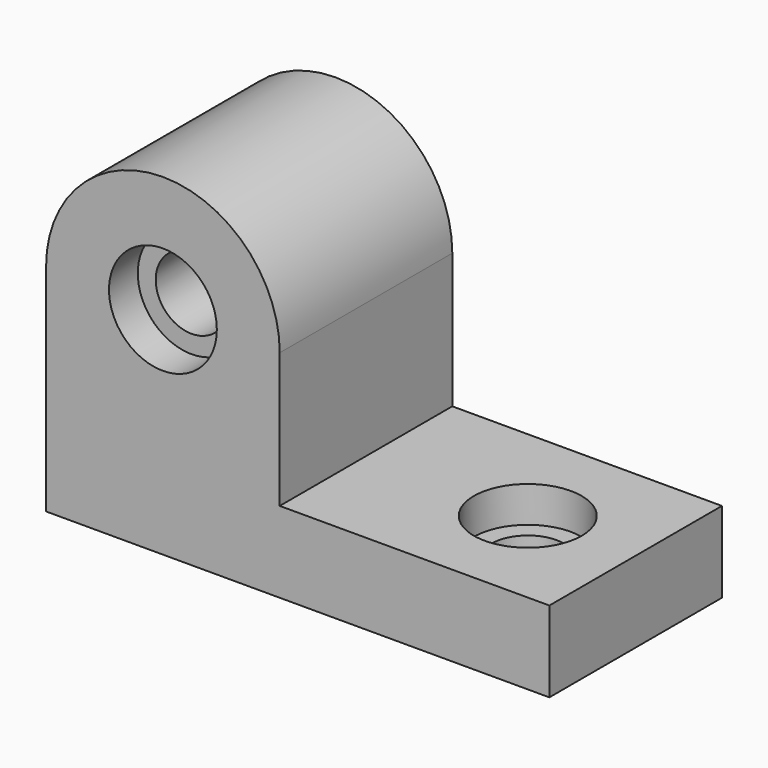
from build123d import *

# Parameters (mm, degrees)
F1_DEPTH  = 76.2
F3_DEPTH  = 76.201
F4_R      = 19.05
F5_DEPTH  = 12.7
F6_R      = 12.7
F7_DEPTH  = 63.501
F8_R      = 19.05
F9_DEPTH  = 12.7
F10_R     = 12.7
F11_DEPTH = 15.876


with BuildPart() as f1:
    # F0 (on Front) → F1 (new body)
    with BuildSketch(Plane.XZ):
        Polygon((0, 127), (0, 0), (177.8, 0), (177.8, 28.575), (82.55, 28.575), (82.55, 127), align=None)
    extrude(amount=F1_DEPTH)

    # F2 (on face) → F3 (cut, through all)
    with BuildSketch(Plane.XZ.offset(76.2)):
        with BuildLine():
            ThreePointArc((0, 76.2), (41.275, 117.475), (82.55, 76.2))
            Line((82.55, 76.2), (82.55, 127))
            Line((82.55, 127), (0, 127))
            Line((0, 127), (0, 76.2))
        make_face()
    extrude(amount=-F3_DEPTH, mode=Mode.SUBTRACT)

    # F4 (on face) → F5 (cut)
    with BuildSketch(Plane.XZ.offset(76.2)):
        with Locations((41.275, 76.2)):
            Circle(F4_R)
    extrude(amount=-F5_DEPTH, mode=Mode.SUBTRACT)

    # F6 (on face) → F7 (cut, through all)
    with BuildSketch(Plane.XZ.offset(63.5)):
        with Locations((41.275, 76.2)):
            Circle(F6_R)
    extrude(amount=-F7_DEPTH, mode=Mode.SUBTRACT)

    # F8 (on face) → F9 (cut)
    with BuildSketch(Plane.XY.offset(28.575)):
        with Locations((139.7, -38.1)):
            Circle(F8_R)
    extrude(amount=-F9_DEPTH, mode=Mode.SUBTRACT)

    # F10 (on face) → F11 (cut, through all)
    with BuildSketch(Plane.XY.offset(15.875)):
        with Locations((139.7, -38.1)):
            Circle(F10_R)
    extrude(amount=-F11_DEPTH, mode=Mode.SUBTRACT)


solid = f1.part
